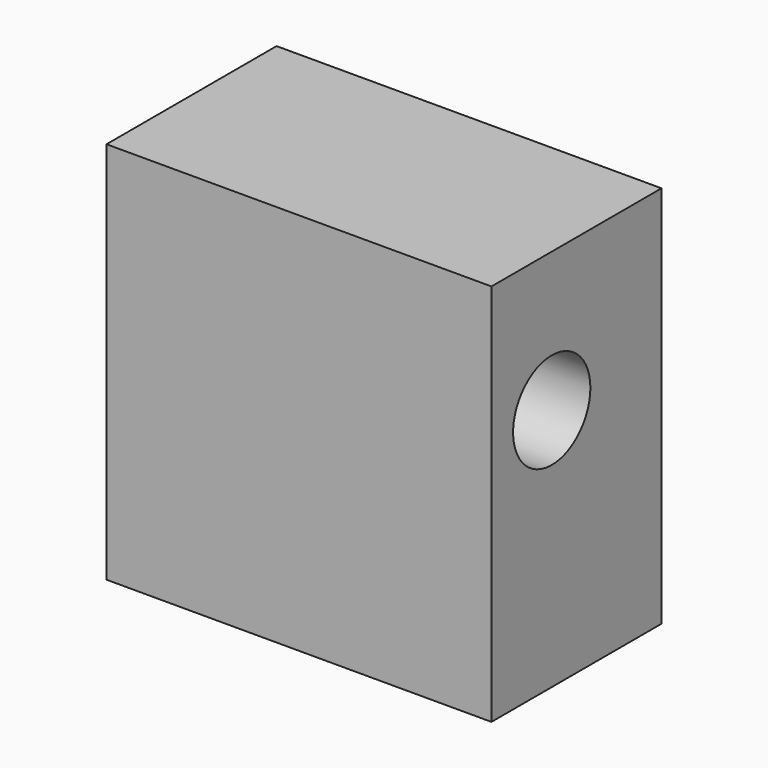
from build123d import *

# Parameters (mm, degrees)
F0_W     = 46.001066
F0_H     = 45.813687
F1_DEPTH = 25.4
F2_R     = 5.772308
F3_DEPTH = 46.002066


with BuildPart() as f1:
    # F0 (on Front) → F1 (new body)
    with BuildSketch(Plane.XZ):
        with Locations((23.000533, 22.906843)):
            Rectangle(F0_W, F0_H)
    extrude(amount=F1_DEPTH)

    # F2 (on Right) → F3 (cut, through all)
    with BuildSketch(Plane.YZ):
        with Locations((-16.395491, 29.137131)):
            Circle(F2_R)
    extrude(amount=F3_DEPTH, mode=Mode.SUBTRACT)


solid = f1.part
